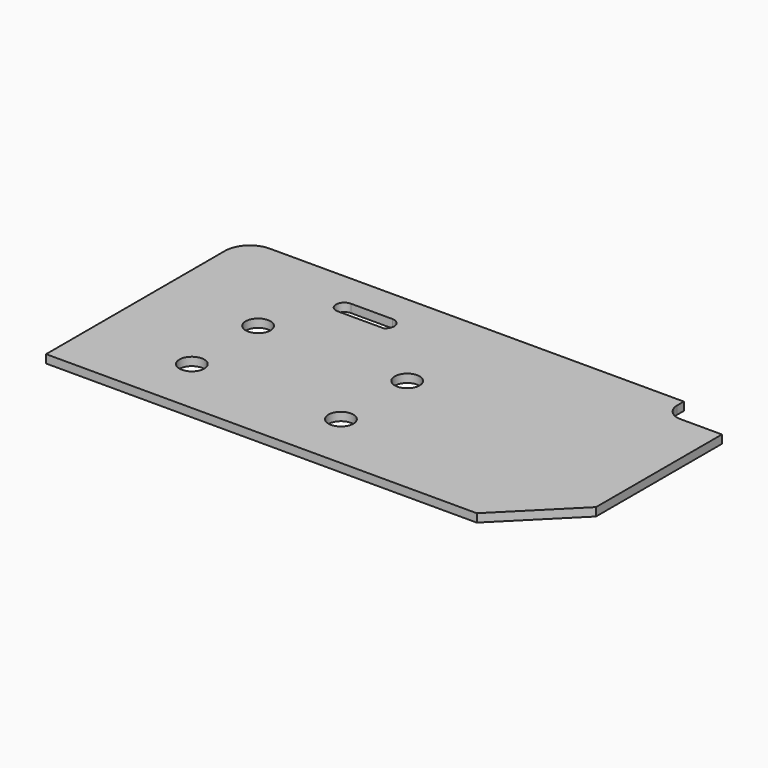
from build123d import *

# Parameters (mm, degrees)
F1_DEPTH = 25.4
F2_D     = 76.2
F3_R     = 76.2
F4_SIZE  = 203.2
F5_R     = 50.8
F7_DEPTH = 25.401


with BuildPart() as f1:
    # F0 (on Top) → F1 (new body)
    with BuildSketch(Plane.XY):
        Polygon((0, 762), (0, 0), (1524, 0), (1524, 685.8), (1346.2, 685.8), (1346.2, 762), align=None)
    extrude(amount=F1_DEPTH)

    # F2 (through all)
    with Locations(Plane(origin=(0, 0, 0), x_dir=(1, 0, 0), z_dir=(0, 0, -1))):
        with Locations((304.8, -177.8), (304.8, -431.8), (762, -431.8), (762, -177.8)):
            Hole(F2_D / 2)

    # F3
    f3_edges = [f1.edges().sort_by_distance(p)[0] for p in [
        (0, 762, 12.7),
    ]]
    fillet(f3_edges, radius=F3_R)

    # F4
    f4_edges = [f1.edges().sort_by_distance(p)[0] for p in [
        (1524, 0, 12.7),
    ]]
    chamfer(f4_edges, length=F4_SIZE)

    # F5
    f5_edges = [f1.edges().sort_by_distance(p)[0] for p in [
        (1346.2, 685.8, 12.7),
    ]]
    fillet(f5_edges, radius=F5_R)

    # F6 (on Top) → F7 (cut, through all)
    with BuildSketch(Plane.XY):
        with BuildLine():
            Line((533.4, 660.4), (406.4, 660.4))
            ThreePointArc((406.4, 660.4), (381, 635), (406.4, 609.6))
            Line((406.4, 609.6), (547.8161634918, 609.6))
            ThreePointArc((547.8161634918, 609.6), (559.802962759, 640.4471760412), (533.4, 660.4))
        make_face()
    extrude(amount=F7_DEPTH, mode=Mode.SUBTRACT)


solid = f1.part
